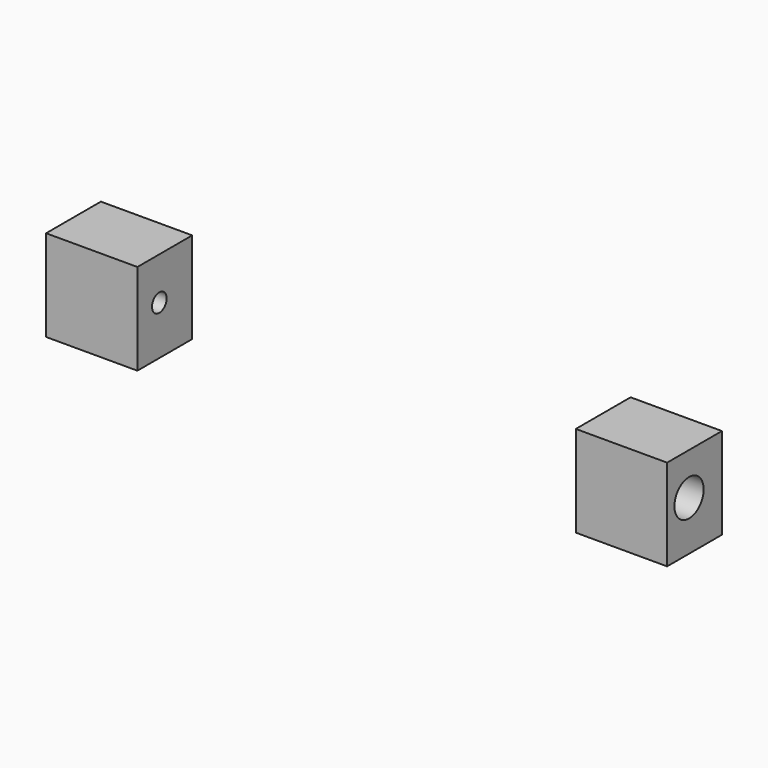
from build123d import *

# Parameters (mm, degrees)
CYLINDER400_R     = 2
CYLINDER400_DEPTH = 44
CYLINDER354_R     = 4
CYLINDER354_DEPTH = 30
BOX454_W          = 20
BOX454_H          = 15
BOX454_DEPTH      = 20
CYLINDER402_R     = 2
CYLINDER402_DEPTH = 44
CYLINDER401_R     = 4
CYLINDER401_DEPTH = 30
BOX514_W          = 20
BOX514_H          = 15
BOX514_DEPTH      = 20


with BuildPart() as cylinder400:
    # Cylinder400 → Cylinder400 (new body)
    with BuildSketch(Plane(origin=(-126, -72, 10.7), x_dir=(0, 0, -1), z_dir=(1, 0, 0))):
        Circle(CYLINDER400_R)
    extrude(amount=CYLINDER400_DEPTH)


with BuildPart() as cylinder354:
    # Cylinder354 → Cylinder354 (new body)
    with BuildSketch(Plane(origin=(-116, -72, 10.79), x_dir=(0, 0, -1), z_dir=(1, 0, 0))):
        Circle(CYLINDER354_R)
    extrude(amount=CYLINDER354_DEPTH)


with BuildPart() as cut433:
    # Box454 → Box454 (new body)
    with BuildSketch(Plane(origin=(-102, -78, 0), x_dir=(1, 0, 0), z_dir=(0, 0, 1))):
        with Locations((10, 7.5)):
            Rectangle(BOX454_W, BOX454_H)
    extrude(amount=BOX454_DEPTH)

    # Cut432: cut Cylinder354
    add(cylinder354.part, mode=Mode.SUBTRACT)

    # Cut433: cut Cylinder400
    add(cylinder400.part, mode=Mode.SUBTRACT)


with BuildPart() as cylinder402:
    # Cylinder402 → Cylinder402 (new body)
    with BuildSketch(Plane(origin=(14, -72, 10.79), x_dir=(0, 0, -1), z_dir=(1, 0, 0))):
        Circle(CYLINDER402_R)
    extrude(amount=CYLINDER402_DEPTH)


with BuildPart() as cylinder401:
    # Cylinder401 → Cylinder401 (new body)
    with BuildSketch(Plane(origin=(18, -72, 10.79), x_dir=(0, 0, -1), z_dir=(1, 0, 0))):
        Circle(CYLINDER401_R)
    extrude(amount=CYLINDER401_DEPTH)


with BuildPart() as fusion398:
    # Box514 → Box514 (new body)
    with BuildSketch(Plane(origin=(14, -78, 0), x_dir=(1, 0, 0), z_dir=(0, 0, 1))):
        with Locations((10, 7.5)):
            Rectangle(BOX514_W, BOX514_H)
    extrude(amount=BOX514_DEPTH)

    # Cut434: cut Cylinder401
    add(cylinder401.part, mode=Mode.SUBTRACT)

    # Cut435: cut Cylinder402
    add(cylinder402.part, mode=Mode.SUBTRACT)

    # Fusion398: union Cut433
    add(cut433.part)


solid = fusion398.part
